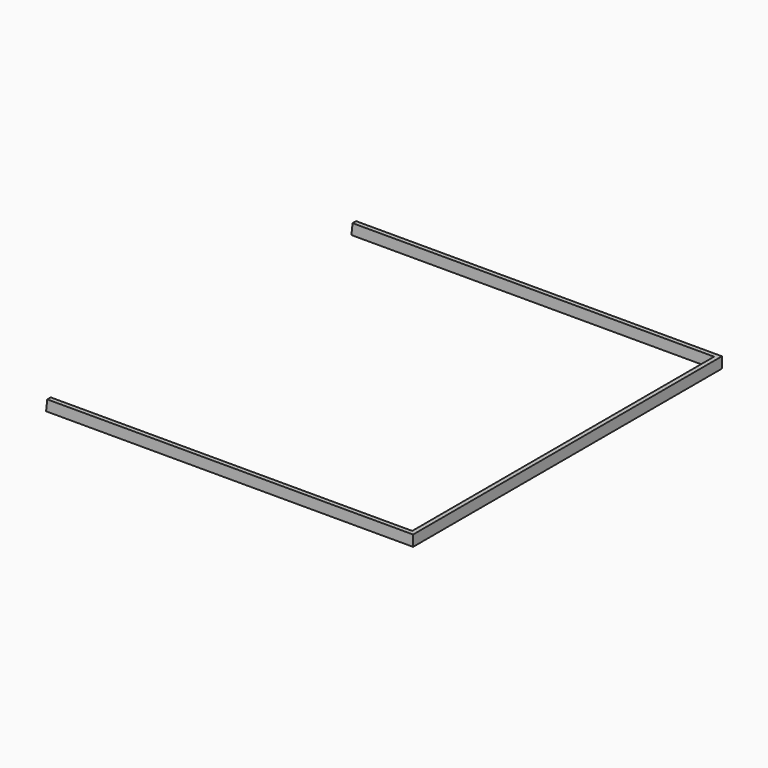
from build123d import *

# Parameters (mm, degrees)
PAD006_DEPTH = 110
BOX051_W     = 117
BOX051_H     = 104
BOX051_DEPTH = 3
BOX050_W     = 118.2
BOX050_H     = 106.4
BOX050_DEPTH = 3


with BuildPart() as body004:
    # CopySketch011 → Pad006 (new body)
    with BuildSketch(Plane(origin=(0, 0, -162), x_dir=(1, 0, 0), z_dir=(0, -1, 0))):
        Polygon((0, 0), (2.01, 0), (19.87772, 170), (0, 170), align=None)
    extrude(amount=-PAD006_DEPTH)


with BuildPart() as cube043:
    # Box051 → Box051 (new body)
    with BuildSketch(Plane(origin=(0, 1.2, 0), x_dir=(1, 0, 0), z_dir=(0, 0, 1))):
        with Locations((58.5, 52)):
            Rectangle(BOX051_W, BOX051_H)
    extrude(amount=BOX051_DEPTH)


with BuildPart() as deckel_rahmen_cut:
    # Box050 → Box050 (new body)
    with BuildSketch(Plane.XY):
        with Locations((59.1, 53.2)):
            Rectangle(BOX050_W, BOX050_H)
    extrude(amount=BOX050_DEPTH)

    # Cut050: cut Cube043
    add(cube043.part, mode=Mode.SUBTRACT)


with BuildPart() as deckel_rahmen_cut_1:
    # Cut050 placement: moved
    add(deckel_rahmen_cut.part.moved(Location((0, 1.8, -19))))

    # Cut051: cut Body004
    add(body004.part, mode=Mode.SUBTRACT)


solid = deckel_rahmen_cut_1.part
